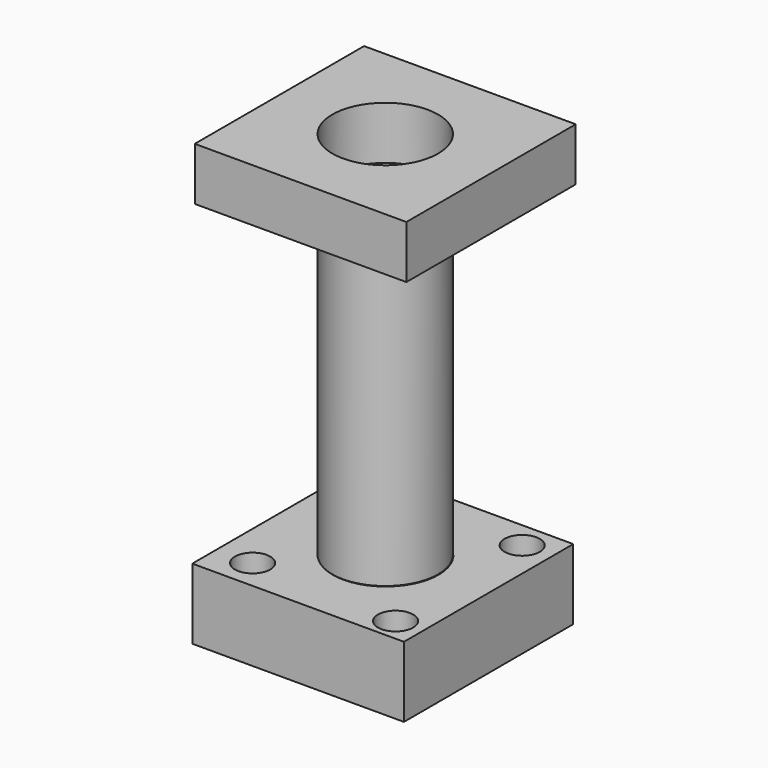
from build123d import *

# Parameters (mm, degrees)
F0_W      = 76.2
F0_H      = 76.2
F1_DEPTH  = 25.4
F4_D      = 38.1
F9_D      = 12.7
F10_R     = 19.05
F11_DEPTH = 114.3
F12_W     = 76.2
F12_H     = 76.2
F12_R     = 19.05
F13_DEPTH = 25.4
F15_W     = 76.2
F15_H     = 76.2
F15_R     = 19.05
F16_DEPTH = 19.05


with BuildPart() as f1:
    # F0 (on Top) → F1 (new body)
    with BuildSketch(Plane.XY):
        with Locations((54.962432, -12.116313)):
            Rectangle(F0_W, F0_H)
    extrude(amount=F1_DEPTH)

    # F4 (through all)
    with Locations(Plane.XY.offset(25.4)):
        with Locations((56.145839, -12.316914)):
            Hole(F4_D / 2)

    # F9 (through all)
    with Locations(Plane.XY.offset(25.4)):
        with Locations((83.34551, -41.819107), (29.876301, -39.355114), (30.805135, 14.753973), (82.346298, 16.398087)):
            Hole(F9_D / 2)

    # F10 (on face) → F11 (join)
    with BuildSketch(Plane.XY.offset(25.4)):
        with Locations((55.857293, -12.126533)):
            Circle(F10_R)
    extrude(amount=F11_DEPTH)


with BuildPart() as f13:
    # F12 (on face) → F13 (new body)
    with BuildSketch(Plane.XY.offset(139.7)):
        with Locations((55.857293, -12.126533)):
            Rectangle(F12_W, F12_H)
        with Locations((55.857293, -12.126533)):
            Circle(F12_R, mode=Mode.SUBTRACT)
    extrude(amount=F13_DEPTH)


with BuildPart() as f16:
    # F15 (on face) → F16 (new body)
    with BuildSketch(Plane.XY.offset(139.7)):
        with Locations((55.857293, -12.126533)):
            Rectangle(F15_W, F15_H)
        with Locations((55.857293, -12.126533)):
            Circle(F15_R, mode=Mode.SUBTRACT)
    extrude(amount=F16_DEPTH)


solid = Compound([f1.part, f16.part])
